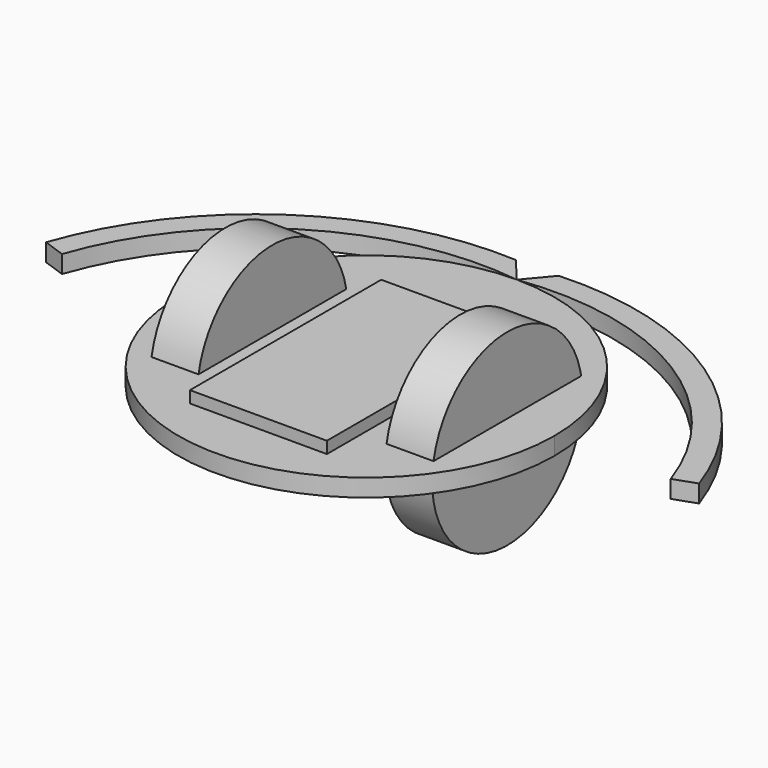
from build123d import *

# Parameters (mm, degrees)
F1_DEPTH = 4.7625
F3_R     = 25.4
F4_DEPTH = 12.7
F6_R     = 25.4
F7_DEPTH = 12.7
F8_W     = 37.011206
F8_H     = 64.607995
F9_DEPTH = 3.175


with BuildPart() as f1:
    # F0 (on Top) → F1 (new body)
    with BuildSketch(Plane.XY):
        with BuildLine():
            ThreePointArc((0, 50.8), (-35.921024, -35.921024), (50.8, 0))
            ThreePointArc((50.8, 0), (35.921024, 35.921024), (0, 50.8))
        make_face()
        with BuildLine():
            ThreePointArc((-82.240959, 0), (-50.206793, 40.109982), (0, 50.8))
            Line((0, 50.8), (-5.778502, 57.714164))
            ThreePointArc((-5.778502, 57.714164), (-56.320491, 43.719545), (-88.232808, 2.10289))
            Line((-88.232808, 2.10289), (-82.240959, 0))
        make_face()
        with BuildLine():
            Line((5.797567, 57.715176), (0, 50.8))
            ThreePointArc((0, 50.8), (50.206793, 40.109982), (82.240959, 0))
            Line((82.240959, 0), (88.232808, 2.10289))
            ThreePointArc((88.232808, 2.10289), (56.328405, 43.714207), (5.797567, 57.715176))
        make_face()
    extrude(amount=F1_DEPTH)

    # F6 (on offset) → F7 (join)
    with BuildSketch(Plane.YZ.offset(-25.4)):
        Circle(F6_R)
    extrude(amount=-F7_DEPTH)

    # F8 (on face) → F9 (join)
    with BuildSketch(Plane.XY.offset(4.7625)):
        with Locations((0, -4.158877)):
            Rectangle(F8_W, F8_H)
    extrude(amount=F9_DEPTH)


with BuildPart() as f4:
    # F3 (on offset) → F4 (new body)
    with BuildSketch(Plane.YZ.offset(25.4)):
        Circle(F3_R)
    extrude(amount=F4_DEPTH)


solid = Compound([f1.part, f4.part])
